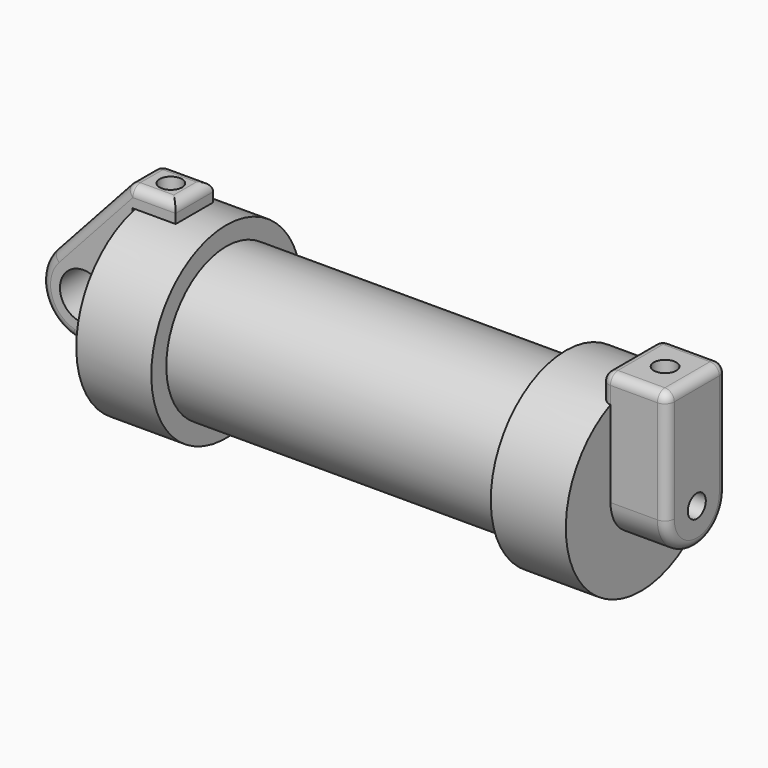
from build123d import *

# Parameters (mm, degrees)
F0_W          = 5.842
F0_H          = 12.7
F0_R          = 3.175
F3_DEPTH      = 3.175
F4_R          = 1.524
F5_DEPTH      = 7.62
F5_DEPTH_BACK = 1.27
F6_R          = 1.524
F7_DEPTH      = 17.78
F8_R          = 1.524
F9_DEPTH      = 10.414
F10_R         = 1.27
F10_2_R       = 1.27


with BuildPart() as f1:
    # F0 (on Front) → F1 (revolve)
    with BuildSketch(Plane.XZ):
        Polygon((5.842, 12.7), (5.842, 0), (66.294, 0), (66.294, 12.7), (56.134, 12.7), (56.134, 10.16), (10.16, 10.16), (10.16, 12.7), align=None)
        with Locations((2.921, 6.35)):
            Rectangle(F0_W, F0_H)
    revolve(axis=Axis((33.147, 0, 0), (-1, 0, 0)))

    # F4 (on face) → F5 (join, two sides)
    with BuildSketch(Plane.YZ.offset(66.294)) as f5_sk:
        with BuildLine():
            ThreePointArc((-5.1334373321, -0.0392104594), (-0.0534373321, -5.1192104594), (5.0265626679, -0.0392104594))
            ThreePointArc((5.0265626679, -0.0392104594), (-0.0534373321, 5.0407895406), (-5.1334373321, -0.0392104594))
        make_face()
        with Locations((-0.0534373321, -0.0392104594)):
            Circle(F4_R, mode=Mode.SUBTRACT)
        with BuildLine():
            ThreePointArc((-5.1334373321, -0.0392104594), (-0.0534373321, 5.0407895406), (5.0265626679, -0.0392104594))
            Line((5.0265626679, -0.0392104594), (5.0265626679, 15.2007895406))
            Line((5.0265626679, 15.2007895406), (-5.1334373321, 15.1903787628))
            Line((-5.1334373321, 15.1903787628), (-5.1334373321, -0.0392104594))
        make_face()
    extrude(amount=F5_DEPTH)
    extrude(f5_sk.sketch, amount=-F5_DEPTH_BACK)

    # F8 (on face) → F9 (cut)
    with BuildSketch(Plane(origin=(0, -0.0155706944, 15.195622953), x_dir=(1, 0, 0), z_dir=(0, -0.0010246823, 0.999999475))):
        with Locations((69.6220099926, -0.0378666576)):
            Circle(F8_R)
    extrude(amount=-F9_DEPTH, mode=Mode.SUBTRACT)

    # F10
    f10_edges = [f1.edges().sort_by_distance(p)[0] for p in [
        (69.469, 5.026563, 15.20079),
        (65.024, -0.053437, 15.195584),
        (69.469, -5.133437, 15.190379),
        (73.914, -0.053437, 15.195584),
        (65.024, 5.026563, 13.431854),
        (65.024, -5.133437, 13.403326),
        (73.914, 5.026563, 7.58079),
        (73.914, -0.053437, -5.11921),
        (73.914, -5.133437, 7.575584),
    ]]
    fillet(f10_edges, radius=F10_R)


with BuildPart() as f3:
    # F0 (on Front) → F3 (new body, symmetric)
    with BuildSketch(Plane.XZ):
        with BuildLine():
            Line((-0.9398, 0), (0, 0))
            Line((0, 0), (0, 12.7))
            Line((0, 12.7), (5.842, 12.7))
            Line((5.842, 12.7), (5.842, 15.24))
            Line((5.842, 15.24), (-0.508, 15.24))
            Line((-0.508, 15.24), (-10.8806298187, 3.8475430269))
            ThreePointArc((-10.8806298187, 3.8475430269), (-4.5919612295, 5.3297205562), (-0.9398, 0))
        make_face()
        with BuildLine():
            Line((5.842, 0), (0, 0))
            Line((0, 0), (-0.9398, 0))
            ThreePointArc((-0.9398, 0), (-3.1957909266, -4.5493385486), (-8.1826630726, -5.5069827884))
            Line((-8.1826630726, -5.5069827884), (5.842, -9.398))
            Line((5.842, -9.398), (5.842, 0))
        make_face()
        with BuildLine():
            ThreePointArc((-8.1826630726, -5.5069827884), (-3.1957909266, -4.5493385486), (-0.9398, 0))
            ThreePointArc((-0.9398, 0), (-4.5919612295, 5.3297205562), (-10.8806298187, 3.8475430269))
            ThreePointArc((-10.8806298187, 3.8475430269), (-12.1459778134, -1.5837270034), (-8.1826630726, -5.5069827884))
        make_face()
        with Locations((-6.6548, 0)):
            Circle(F0_R, mode=Mode.SUBTRACT)
    extrude(amount=F3_DEPTH, both=True)

    # F6 (on face) → F7 (cut)
    with BuildSketch(Plane.XY.offset(15.24)):
        with Locations((2.6447647251, 0)):
            Circle(F6_R)
    extrude(amount=-F7_DEPTH, mode=Mode.SUBTRACT)

    # F10#2
    f10_2_edges = [f3.edges().sort_by_distance(p)[0] for p in [
        (2.667, 3.175, 15.24),
        (-0.508, 0, 15.24),
        (2.667, -3.175, 15.24),
        (5.842, 0, 15.24),
        (-5.694315, 3.175, 9.543772),
        (-5.694315, -3.175, 9.543772),
        (-12.145978, 3.175, -1.583727),
        (-12.145978, -3.175, -1.583727),
        (-1.170332, 3.175, -7.452491),
        (-1.170332, -3.175, -7.452491),
    ]]
    fillet(f10_2_edges, radius=F10_2_R)


solid = Compound([f1.part, f3.part])
